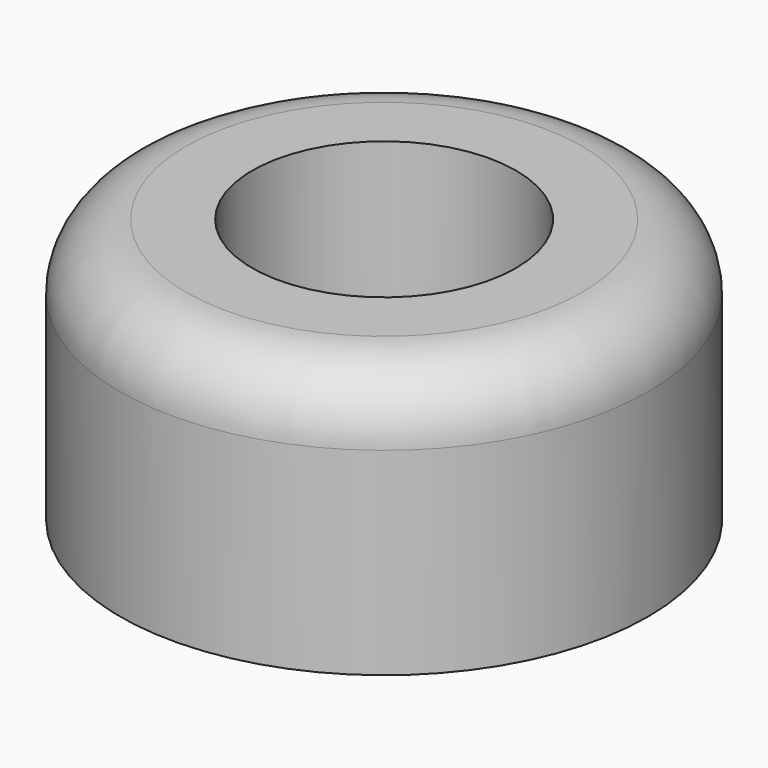
from build123d import *

# Parameters (mm, degrees)
CYLINDER001_R     = 2
CYLINDER001_DEPTH = 10
CYLINDER_R        = 4
CYLINDER_DEPTH    = 4
FILLET_R          = 1


with BuildPart() as cilindro001:
    # Cylinder001 → Cylinder001 (new body)
    with BuildSketch(Plane(origin=(-35, 16, -2), x_dir=(1, 0, 0), z_dir=(0, 0, 1))):
        Circle(CYLINDER001_R)
    extrude(amount=CYLINDER001_DEPTH)


with BuildPart() as obj1:
    # Cylinder → Cylinder (new body)
    with BuildSketch(Plane(origin=(-35, 16, 0), x_dir=(1, 0, 0), z_dir=(0, 0, 1))):
        Circle(CYLINDER_R)
    extrude(amount=CYLINDER_DEPTH)

    # Cut001: cut Cilindro001
    add(cilindro001.part, mode=Mode.SUBTRACT)


with BuildPart() as obj1_1:
    # Cut001 placement: moved
    add(obj1.part.moved(Location((0, 1.3, 0))))

    # Fillet
    fillet_edges = [obj1_1.edges().sort_by_distance(p)[0] for p in [
        (-39, 17.3, 4),
    ]]
    fillet(fillet_edges, radius=FILLET_R)


with BuildPart() as obj1_2:
    # Fillet placement: moved
    add(obj1_1.part.moved(Location((6, -6, 0))))


solid = obj1_2.part
